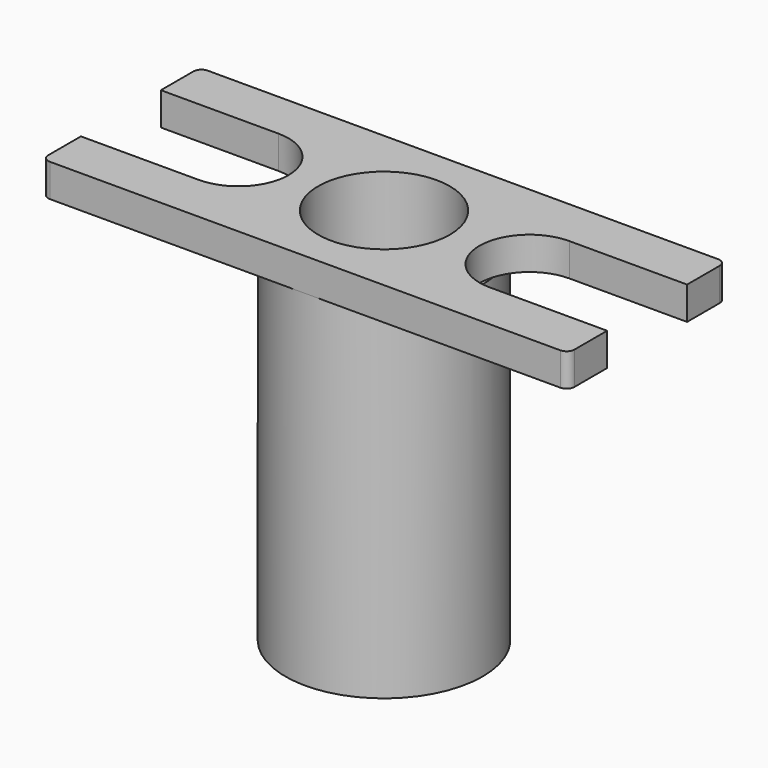
from build123d import *

# Parameters (mm, degrees)
F1_DEPTH      = 3.175
F2_R          = 1.524
F5_START      = -3.175
F4_R          = 19.05
F5_DEPTH      = 66.675
F3_R          = 12.7
F6_DEPTH      = 63.5
F6_DEPTH_BACK = 25.4
F7_R          = 4.7625
F8_DEPTH      = 75.09229


with BuildPart() as f1:
    # F0 (on Top) → F1 (new body, symmetric)
    with BuildSketch(Plane.XY):
        with BuildLine():
            Line((52.7649549718, 29.4761320562), (-48.8350450282, 29.4761320562))
            Line((-48.8350450282, 29.4761320562), (-48.8350450282, 20.0781320562))
            Line((-48.8350450282, 20.0781320562), (-26.1262064392, 20.0781320562))
            ThreePointArc((-26.1262064392, 20.0781320562), (-16.4742064392, 10.4261320562), (-26.1262064392, 0.7741320562))
            Line((-26.1262064392, 0.7741320562), (-48.8350450282, 0.7741320562))
            Line((-48.8350450282, 0.7741320562), (-48.8350450282, -8.6238679438))
            Line((-48.8350450282, -8.6238679438), (52.7649549718, -8.6238679438))
            Line((52.7649549718, -8.6238679438), (52.7649549718, 0.7741320562))
            Line((52.7649549718, 0.7741320562), (30.0561163827, 0.7741320562))
            ThreePointArc((30.0561163827, 0.7741320562), (20.4041163827, 10.4261320562), (30.0561163827, 20.0781320562))
            Line((30.0561163827, 20.0781320562), (52.7649549718, 20.0781320562))
            Line((52.7649549718, 20.0781320562), (52.7649549718, 29.4761320562))
        make_face()
    extrude(amount=F1_DEPTH, both=True)

    # F2
    f2_edges = [f1.edges().sort_by_distance(p)[0] for p in [
        (52.764955, 29.476132, 0),
        (52.764955, -8.623868, 0),
        (-48.835045, -8.623868, 0),
        (-48.835045, 29.476132, 0),
    ]]
    fillet(f2_edges, radius=F2_R)

    # F4 (on Top) → F5 (join)
    with BuildSketch(Plane.XY.offset(F5_START)):
        with Locations((1.9649549718, 10.4261320562)):
            Circle(F4_R)
    extrude(amount=-F5_DEPTH)

    # F3 (on Top) → F6 (cut, two sides)
    with BuildSketch(Plane.XY) as f6_sk:
        with Locations((1.9649549718, 10.4261320562)):
            Circle(F3_R)
    extrude(amount=-F6_DEPTH, mode=Mode.SUBTRACT)
    extrude(f6_sk.sketch, amount=F6_DEPTH_BACK, mode=Mode.SUBTRACT)

    # F7 (on Top) → F8 (cut)
    with BuildSketch(Plane.XY):
        with Locations((1.9649549718, 10.4261320562)):
            Circle(F7_R)
    extrude(amount=-F8_DEPTH, mode=Mode.SUBTRACT)


solid = f1.part
